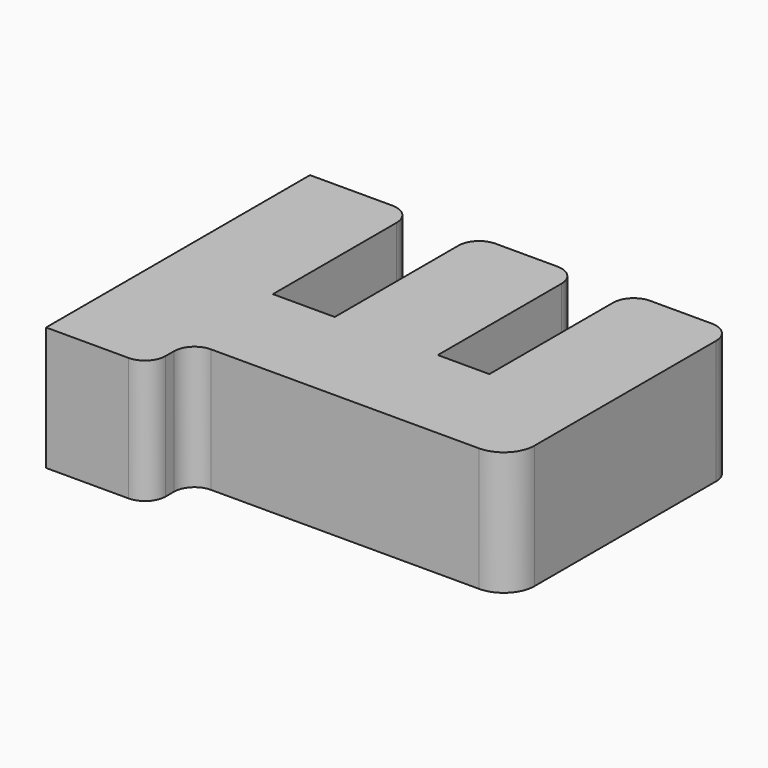
from build123d import *

# Parameters (mm, degrees)
F1_DEPTH = 12


with BuildPart() as f1:
    # F0 (on Top) → F1 (new body)
    with BuildSketch(Plane.XY):
        with BuildLine():
            Line((-21.79835, -15.717938), (-29.79835, -15.717938))
            Line((-29.79835, -15.717938), (-29.79835, -42.717938))
            Line((-29.79835, -42.717938), (-29.79835, -47.717938))
            Line((-29.79835, -47.717938), (-21.79835, -47.717938))
            ThreePointArc((-21.79835, -47.717938), (-20.384137, -47.132152), (-19.79835, -45.717938))
            Line((-19.79835, -45.717938), (-19.79835, -44.717938))
            ThreePointArc((-19.79835, -44.717938), (-19.212564, -43.303725), (-17.79835, -42.717938))
            Line((-17.79835, -42.717938), (8.20165, -42.717938))
            ThreePointArc((8.20165, -42.717938), (10.32297, -41.839259), (11.20165, -39.717938))
            Line((11.20165, -39.717938), (11.20165, -17.717938))
            ThreePointArc((11.20165, -17.717938), (10.615863, -16.303725), (9.20165, -15.717938))
            Line((9.20165, -15.717938), (3.20165, -15.717938))
            ThreePointArc((3.20165, -15.717938), (1.787436, -16.303725), (1.20165, -17.717938))
            Line((1.20165, -17.717938), (1.20165, -32.717938))
            Line((1.20165, -32.717938), (-3.79835, -32.717938))
            Line((-3.79835, -32.717938), (-3.79835, -17.717938))
            ThreePointArc((-3.79835, -17.717938), (-4.384137, -16.303725), (-5.79835, -15.717938))
            Line((-5.79835, -15.717938), (-11.79835, -15.717938))
            ThreePointArc((-11.79835, -15.717938), (-13.212564, -16.303725), (-13.79835, -17.717938))
            Line((-13.79835, -17.717938), (-13.79835, -32.717938))
            Line((-13.79835, -32.717938), (-19.79835, -32.717938))
            Line((-19.79835, -32.717938), (-19.79835, -17.717938))
            ThreePointArc((-19.79835, -17.717938), (-20.384137, -16.303725), (-21.79835, -15.717938))
        make_face()
    extrude(amount=F1_DEPTH)


solid = f1.part
